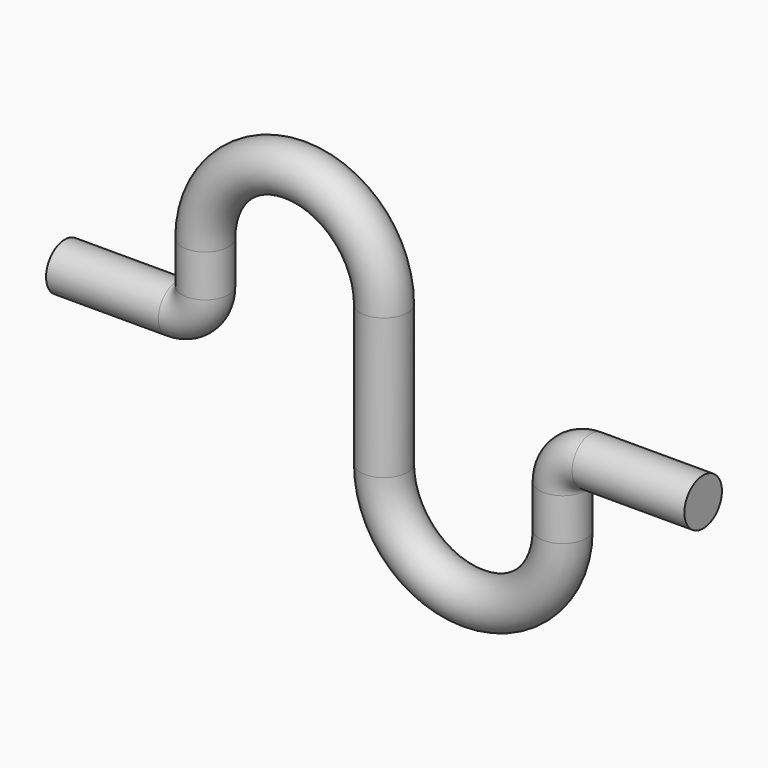
from build123d import *

# Parameters (mm, degrees)
F2_R = 0.835


with BuildPart() as f3:
    # F3: sweep along a path in F0
    with BuildLine(Plane.XZ) as f3_path:
        Line((-11.36, 0), (-7.36, 0))
        ThreePointArc((-7.36, 0), (-6.6528932188, 0.2928932188), (-6.36, 1))
        Line((-6.36, 1), (-6.36, 2.5))
        ThreePointArc((-6.36, 2.5), (-3.18, 5.68), (0, 2.5))
        Line((0, 2.5), (0, -2.5))
        ThreePointArc((0, -2.5), (3.18, -5.68), (6.36, -2.5))
        Line((6.36, -2.5), (6.36, -1))
        ThreePointArc((6.36, -1), (6.6528932188, -0.2928932188), (7.36, 0))
        Line((7.36, 0), (11.36, 0))
    # F2 (on plane+point) → F3 (sweep)
    with BuildSketch(Plane.YZ.offset(-11.36)):
        Circle(F2_R)
    sweep(path=f3_path.line)


solid = f3.part
